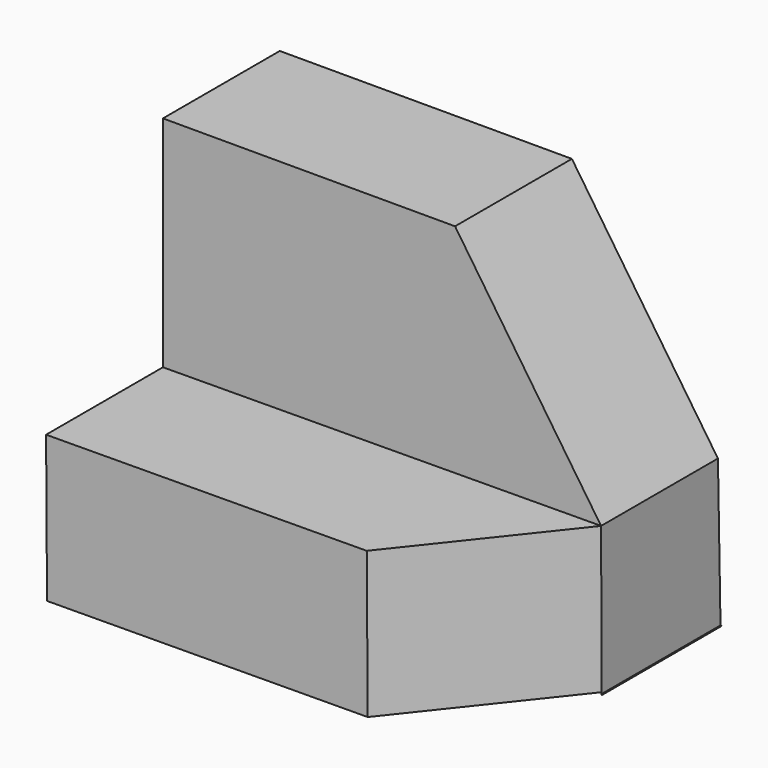
from build123d import *

# Parameters (mm, degrees)
F1_DEPTH = 12.7
F2_DEPTH = 25.4
F4_DEPTH = 12.9477037423


with BuildPart() as f1:
    # F0 (on Front) → F1 (new body)
    with BuildSketch(Plane.XZ):
        Polygon((-50.9801958475, 47.1195631513), (-50.9801958475, 28.0695631513), (-12.8809836512, 28.314573409), (-25.5801958475, 47.1195631513), align=None)
    extrude(amount=F1_DEPTH)

    # F0 (on Front) → F2 (join)
    with BuildSketch(Plane.XZ):
        Polygon((-12.8809836512, 28.314573409), (-50.9801958475, 28.0695631513), (-50.8985257615, 15.3698257525), (-12.5351826485, 15.6165345962), (-12.6578014228, 15.6165345962), align=None)
    extrude(amount=F2_DEPTH)

    # F3 (on face) → F4 (cut, through all)
    with BuildSketch(Plane(origin=(-0.1826118805, 0, 28.3962347128), x_dir=(0.9999793227, 0, 0.0064307154), z_dir=(-0.0064307154, 0, 0.9999793227))):
        Polygon((-12.6986343437, -25.4), (-12.6986343437, -12.7), (-22.9151546955, -25.4), align=None)
        Polygon((-4.6167145483, -25.4), (-12.6986343437, -12.7), (-12.6986343437, -25.4), align=None)
    extrude(amount=-F4_DEPTH, mode=Mode.SUBTRACT)


solid = f1.part
